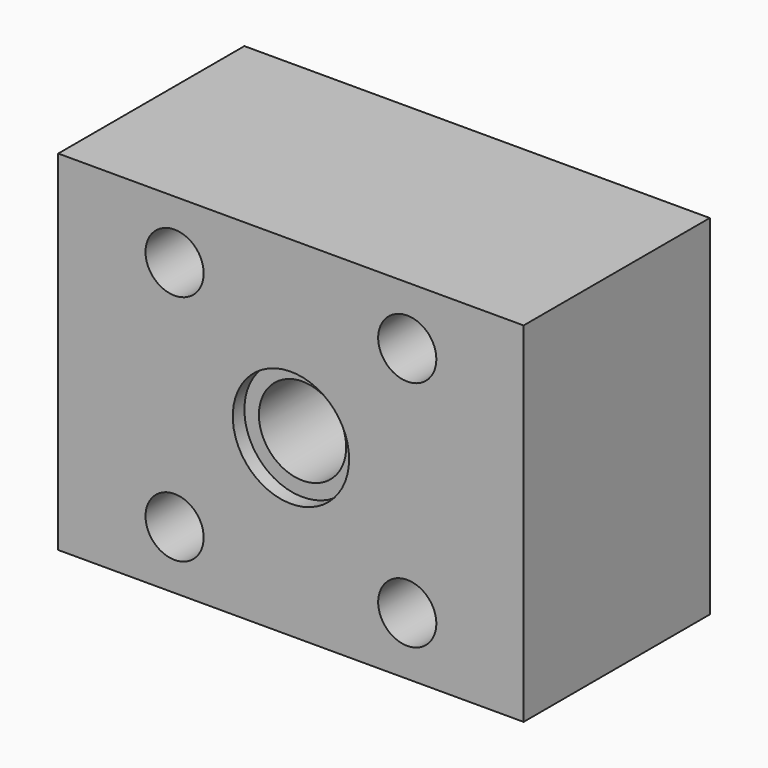
from build123d import *

# Parameters (mm, degrees)
F0_W     = 25.4
F0_H     = 38.1
F1_DEPTH = 50.8
F2_R     = 3.175
F3_DEPTH = 25.4
F4_R     = 6.35
F5_DEPTH = 1.5875
F6_R     = 4.7625
F7_DEPTH = 25.4


with BuildPart() as f1:
    # F0 (on Right) → F1 (new body)
    with BuildSketch(Plane.YZ):
        Rectangle(F0_W, F0_H)
    extrude(amount=F1_DEPTH)

    # F2 (on face) → F3 (cut)
    with BuildSketch(Plane.XZ.offset(12.7)):
        with Locations((12.7, 12.7)):
            Circle(F2_R)
        with Locations((38.1, -12.7)):
            Circle(F2_R)
        with Locations((38.1, 12.7)):
            Circle(F2_R)
        with Locations((12.7, -12.7)):
            Circle(F2_R)
    extrude(amount=-F3_DEPTH, mode=Mode.SUBTRACT)

    # F4 (on face) → F5 (cut)
    with BuildSketch(Plane.XZ.offset(12.7)):
        with Locations((25.4, 0)):
            Circle(F4_R)
    extrude(amount=-F5_DEPTH, mode=Mode.SUBTRACT)

    # F6 (on face) → F7 (cut)
    with BuildSketch(Plane(origin=(0, 12.7, 0), x_dir=(-1, 0, 0), z_dir=(0, 1, 0))):
        with Locations((-25.4, 0)):
            Circle(F6_R)
    extrude(amount=-F7_DEPTH, mode=Mode.SUBTRACT)


solid = f1.part
